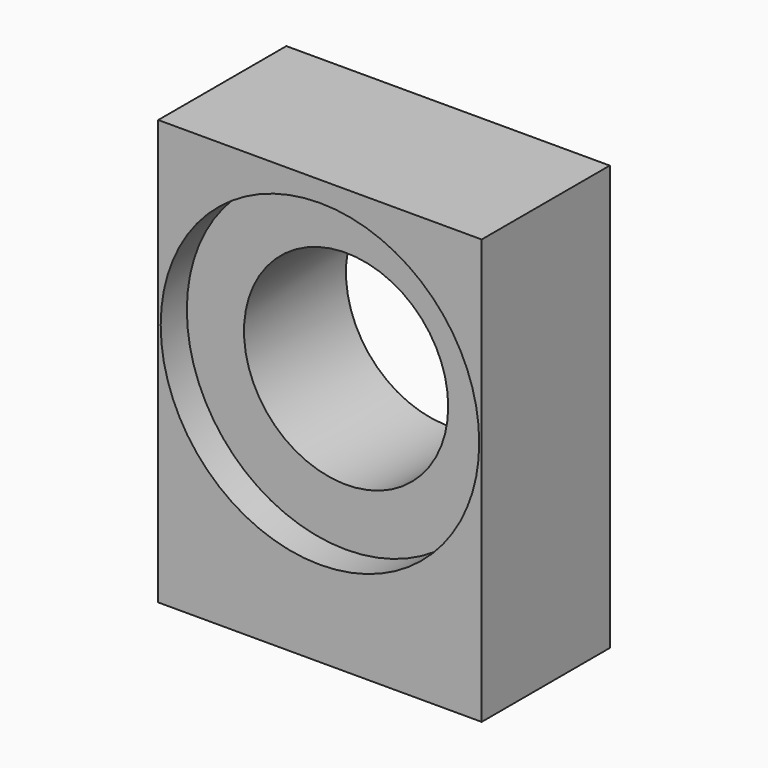
from build123d import *

# Parameters (mm, degrees)
F0_W     = 50.292
F0_H     = 66.04
F0_R     = 15.875
F1_DEPTH = 12.446
F2_R     = 24.765
F3_DEPTH = 5.08
F4_R     = 2.0193
F4_R_2   = 1.6002
F5_DEPTH = 19.05


with BuildPart() as f1:
    # F0 (on Front) → F1 (new body, symmetric)
    with BuildSketch(Plane.XZ):
        with Locations((0, -5.08)):
            Rectangle(F0_W, F0_H)
        Circle(F0_R, mode=Mode.SUBTRACT)
    extrude(amount=F1_DEPTH, both=True)

    # F2 (on face) → F3 (cut)
    with BuildSketch(Plane.XZ.offset(12.446)):
        Circle(F2_R)
    extrude(amount=-F3_DEPTH, mode=Mode.SUBTRACT)

    # F4 (on face) → F5 (cut)
    with BuildSketch(Plane(origin=(0, 0, -38.1), x_dir=(1, 0, 0), z_dir=(0, 0, -1))):
        with Locations((-19.05, 0)):
            Circle(F4_R)
        with Locations((19.05, 0)):
            Circle(F4_R)
        with Locations((-19.05, -9.525)):
            Circle(F4_R_2)
        with Locations((19.05, -9.525)):
            Circle(F4_R_2)
    extrude(amount=-F5_DEPTH, mode=Mode.SUBTRACT)


solid = f1.part
